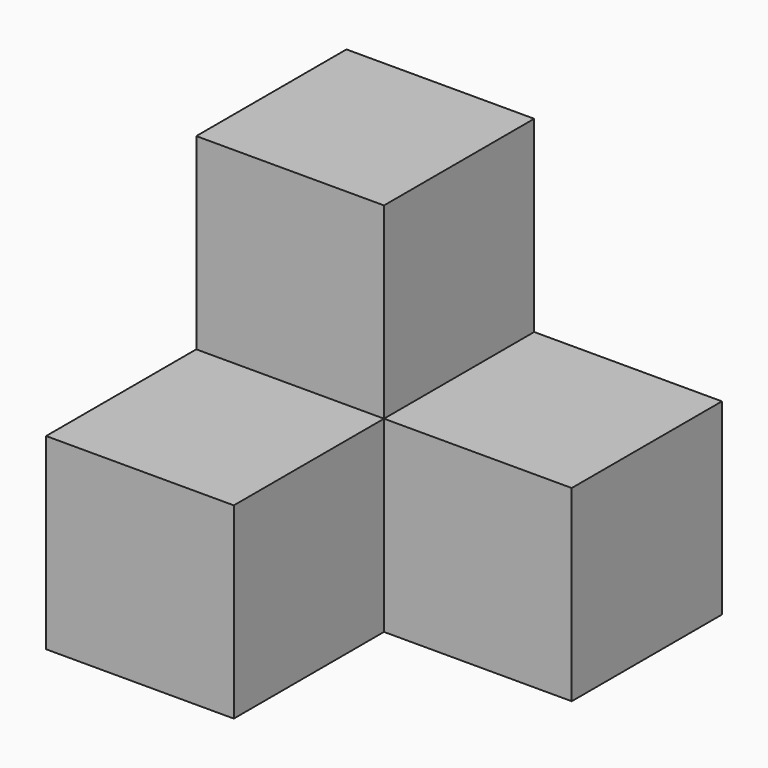
from build123d import *

# Parameters (mm, degrees)
BOX001_W     = 10
BOX001_H     = 10
BOX001_DEPTH = 10
BOX002_W     = 10
BOX002_H     = 10
BOX002_DEPTH = 10
BOX_W        = 10
BOX_H        = 10
BOX_DEPTH    = 20


with BuildPart() as box001:
    # Box001 → Box001 (new body)
    with BuildSketch(Plane(origin=(10, 10, 0), x_dir=(1, 0, 0), z_dir=(0, 0, 1))):
        with Locations((5, 5)):
            Rectangle(BOX001_W, BOX001_H)
    extrude(amount=BOX001_DEPTH)


with BuildPart() as obj1:
    # Box002 → Box002 (new body)
    with BuildSketch(Plane.XY):
        with Locations((5, 5)):
            Rectangle(BOX002_W, BOX002_H)
    extrude(amount=BOX002_DEPTH)


with BuildPart() as fusion001:
    # Box → Box (new body)
    with BuildSketch(Plane(origin=(0, 10, 0), x_dir=(1, 0, 0), z_dir=(0, 0, 1))):
        with Locations((5, 5)):
            Rectangle(BOX_W, BOX_H)
    extrude(amount=BOX_DEPTH)

    # Fusion: union Box001, obj1
    add(box001.part)
    add(obj1.part)


solid = fusion001.part
